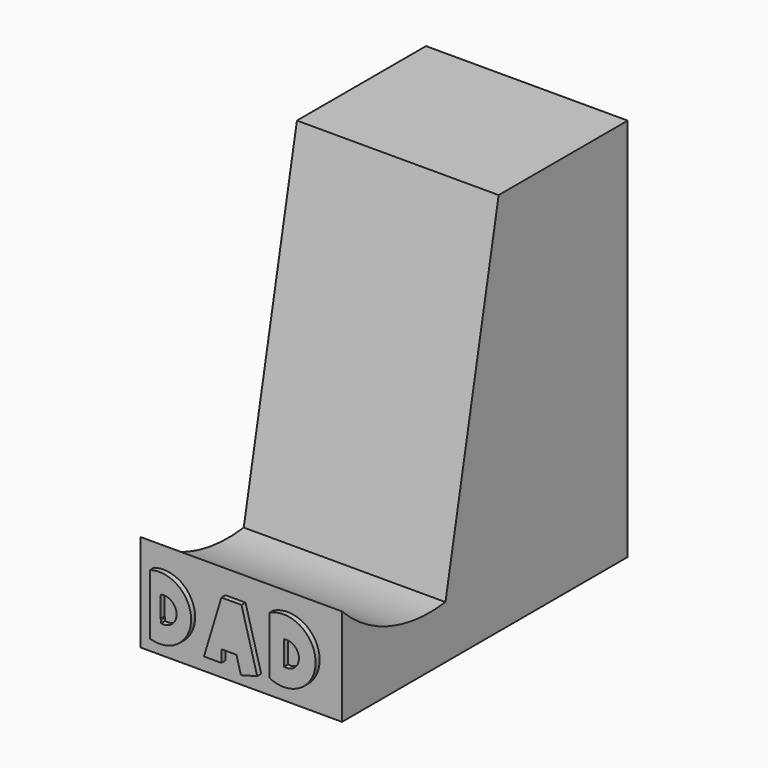
from build123d import *

# Parameters (mm, degrees)
F1_DEPTH = 50.8
F5_DEPTH = 1.27
F6_DEPTH = 1.27
F9_DEPTH = 1.27


with BuildPart() as f1:
    # F0 (on Right) → F1 (new body)
    with BuildSketch(Plane.YZ):
        with BuildLine():
            Line((8.528198, 60.317617), (-8.218083, -23.103662))
            ThreePointArc((-8.218083, -23.103662), (-25.79917, -21.313188), (-40.780291, -11.939476))
            Line((-40.780291, -11.939476), (-40.780291, -36.438663))
            Line((-40.780291, -36.438663), (49.153432, -36.438663))
            Line((49.153432, -36.438663), (49.153432, 60.317617))
            Line((49.153432, 60.317617), (8.528198, 60.317617))
        make_face()
    extrude(amount=F1_DEPTH)

    # F4 (on face) → F5 (join)
    with BuildSketch(Plane.XZ.offset(40.780291)):
        with BuildLine():
            ThreePointArc((33.516739, -31.78544), (45.164839, -24.573186), (33.516739, -17.360933))
            Line((33.516739, -17.360933), (33.516739, -31.78544))
        make_face()
        with BuildLine():
            Line((37.21533, -28.086847), (37.21533, -21.984173))
            ThreePointArc((37.21533, -21.984173), (40.963246, -25.03551), (37.21533, -28.086847))
        make_face(mode=Mode.SUBTRACT)
    extrude(amount=F5_DEPTH)

    # F3 (on face) → F6 (join)
    with BuildSketch(Plane.XZ.offset(40.780291)):
        Polygon((21.440968, -17.885948), (17.044695, -32.393657), (21.440968, -32.393657), (21.440968, -29.343316), (25.225146, -29.343316), (26.361415, -33.509634), (30.453332, -32.393657), (26.496684, -17.885948), align=None)
    extrude(amount=F6_DEPTH)

    # F8 (on face) → F9 (join)
    with BuildSketch(Plane.XZ.offset(40.780291)):
        with BuildLine():
            ThreePointArc((3.46116, -32.851707), (13.814214, -25.248081), (3.46116, -17.644456))
            Line((3.46116, -17.644456), (3.46116, -32.851707))
        make_face()
        with BuildLine():
            Line((6.277318, -22.336844), (6.277318, -22.15031))
            ThreePointArc((6.277318, -22.15031), (10.155551, -25.341956), (6.277318, -28.533602))
            Line((6.277318, -28.533602), (6.277318, -27.643853))
            ThreePointArc((6.277318, -27.643853), (6.166951, -27.608621), (6.058155, -27.5688))
            Line((6.058155, -27.5688), (6.058155, -22.411896))
            ThreePointArc((6.058155, -22.411896), (6.166951, -22.372076), (6.277318, -22.336844))
        make_face(mode=Mode.SUBTRACT)
    extrude(amount=F9_DEPTH)


solid = f1.part
